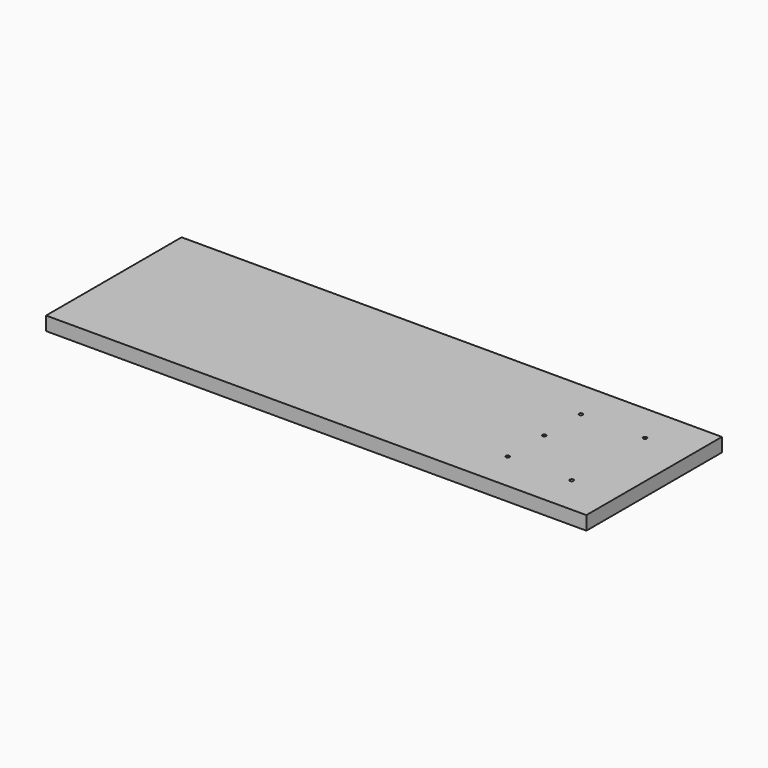
from build123d import *

# Parameters (mm, degrees)
F0_W     = 749.3
F0_H     = 234.95
F0_R     = 2.5
F1_DEPTH = 19.05


with BuildPart() as f1:
    # F0 (on Top) → F1 (new body)
    with BuildSketch(Plane.XY):
        Rectangle(F0_W, F0_H)
        with Locations((222.25, -63.5)):
            Circle(F0_R, mode=Mode.SUBTRACT)
        with Locations((311.15, -63.5)):
            Circle(F0_R, mode=Mode.SUBTRACT)
        with Locations((222.25, 0)):
            Circle(F0_R, mode=Mode.SUBTRACT)
        with Locations((222.25, 63.5)):
            Circle(F0_R, mode=Mode.SUBTRACT)
        with Locations((311.15, 63.5)):
            Circle(F0_R, mode=Mode.SUBTRACT)
    extrude(amount=F1_DEPTH)


solid = f1.part
